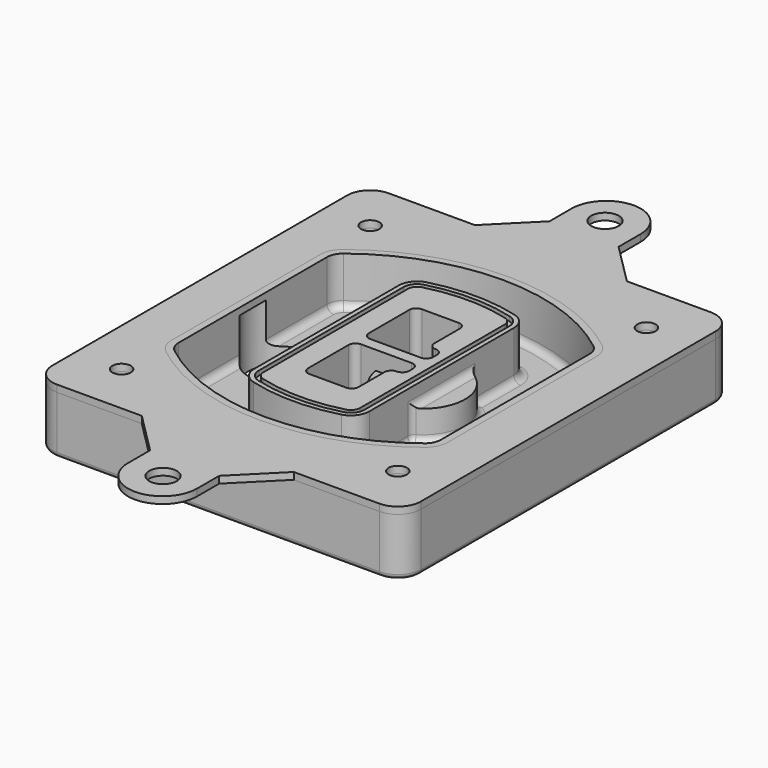
from build123d import *

# Parameters (mm, degrees)
F0_R      = 4
F1_DEPTH  = 25
F2_DEPTH  = 3
F3_DEPTH  = 18
F5_DEPTH  = 21
F6_DEPTH  = 2
F8_DEPTH  = 20
F9_DEPTH  = 16
F10_DEPTH = 25
F7_R      = 6
F7_R_2    = 4
F11_DEPTH = 6
F13_DEPTH = 9
F14_R     = 3
F15_R     = 2
F16_R     = 4
F16_R_2   = 6
F17_DEPTH = 3


with BuildPart() as f1:
    # F0 (on Top) → F1 (new body)
    with BuildSketch(Plane.XY):
        with BuildLine():
            ThreePointArc((-80, -80), (-77.0710678119, -87.0710678119), (-70, -90))
            Line((-70, -90), (70, -90))
            ThreePointArc((70, -90), (77.0710678119, -87.0710678119), (80, -80))
            Line((80, -80), (80, 80))
            ThreePointArc((80, 80), (77.0710678119, 87.0710678119), (70, 90))
            Line((70, 90), (-70, 90))
            ThreePointArc((-70, 90), (-77.0710678119, 87.0710678119), (-80, 80))
            Line((-80, 80), (-80, -80))
        make_face()
        with Locations((-60, -67.5)):
            Circle(F0_R, mode=Mode.SUBTRACT)
        with Locations((60, -67.5)):
            Circle(F0_R, mode=Mode.SUBTRACT)
        with Locations((-60, 67.5)):
            Circle(F0_R, mode=Mode.SUBTRACT)
        with BuildLine():
            ThreePointArc((-64, 40.2934422872), (-62.5820384798, 46.4328484224), (-58.6153846154, 51.3286200352))
            ThreePointArc((-58.6153846154, 51.3286200352), (0, 71.5), (58.6153846154, 51.3286200352))
            ThreePointArc((58.6153846154, 51.3286200352), (62.5820384798, 46.4328484224), (64, 40.2934422872))
            Line((64, 40.2934422872), (64, -40.2934422872))
            ThreePointArc((64, -40.2934422872), (62.5820384798, -46.4328484224), (58.6153846154, -51.3286200352))
            ThreePointArc((58.6153846154, -51.3286200352), (0, -71.5), (-58.6153846154, -51.3286200352))
            ThreePointArc((-58.6153846154, -51.3286200352), (-62.5820384798, -46.4328484224), (-64, -40.2934422872))
            Line((-64, -40.2934422872), (-64, 40.2934422872))
        make_face(mode=Mode.SUBTRACT)
        with Locations((60, 67.5)):
            Circle(F0_R, mode=Mode.SUBTRACT)
        with BuildLine():
            ThreePointArc((58.6153846154, 51.3286200352), (0, 71.5), (-58.6153846154, 51.3286200352))
            ThreePointArc((-58.6153846154, 51.3286200352), (-62.5820384798, 46.4328484224), (-64, 40.2934422872))
            Line((-64, 40.2934422872), (-64, -40.2934422872))
            ThreePointArc((-64, -40.2934422872), (-62.5820384798, -46.4328484224), (-58.6153846154, -51.3286200352))
            ThreePointArc((-58.6153846154, -51.3286200352), (0, -71.5), (58.6153846154, -51.3286200352))
            ThreePointArc((58.6153846154, -51.3286200352), (62.5820384798, -46.4328484224), (64, -40.2934422872))
            Line((64, -40.2934422872), (64, 40.2934422872))
            ThreePointArc((64, 40.2934422872), (62.5820384798, 46.4328484224), (58.6153846154, 51.3286200352))
        make_face()
        with BuildLine():
            Line((-60, -40.2934422872), (-60, 40.2934422872))
            ThreePointArc((-60, 40.2934422872), (-58.9871703427, 44.6787323838), (-56.1538461538, 48.1757121072))
            ThreePointArc((-56.1538461538, 48.1757121072), (0, 67.5), (56.1538461538, 48.1757121072))
            ThreePointArc((56.1538461538, 48.1757121072), (58.9871703427, 44.6787323838), (60, 40.2934422872))
            Line((60, 40.2934422872), (60, -40.2934422872))
            ThreePointArc((60, -40.2934422872), (58.9871703427, -44.6787323838), (56.1538461538, -48.1757121072))
            ThreePointArc((56.1538461538, -48.1757121072), (0, -67.5), (-56.1538461538, -48.1757121072))
            ThreePointArc((-56.1538461538, -48.1757121072), (-58.9871703427, -44.6787323838), (-60, -40.2934422872))
        make_face(mode=Mode.SUBTRACT)
        with BuildLine():
            ThreePointArc((-56.1538461538, 48.1757121072), (-58.9871703427, 44.6787323838), (-60, 40.2934422872))
            Line((-60, 40.2934422872), (-60, -40.2934422872))
            ThreePointArc((-60, -40.2934422872), (-58.9871703427, -44.6787323838), (-56.1538461538, -48.1757121072))
            ThreePointArc((-56.1538461538, -48.1757121072), (0, -67.5), (56.1538461538, -48.1757121072))
            ThreePointArc((56.1538461538, -48.1757121072), (58.9871703427, -44.6787323838), (60, -40.2934422872))
            Line((60, -40.2934422872), (60, 40.2934422872))
            ThreePointArc((60, 40.2934422872), (58.9871703427, 44.6787323838), (56.1538461538, 48.1757121072))
            ThreePointArc((56.1538461538, 48.1757121072), (0, 67.5), (-56.1538461538, 48.1757121072))
        make_face()
        with BuildLine():
            ThreePointArc((54.3076923077, 45.8110311612), (56.2910192399, 43.3631453548), (57, 40.2934422872))
            Line((57, 40.2934422872), (57, -40.2934422872))
            ThreePointArc((57, -40.2934422872), (56.2910192399, -43.3631453548), (54.3076923077, -45.8110311612))
            ThreePointArc((54.3076923077, -45.8110311612), (0, -64.5), (-54.3076923077, -45.8110311612))
            ThreePointArc((-54.3076923077, -45.8110311612), (-56.2910192399, -43.3631453548), (-57, -40.2934422872))
            Line((-57, -40.2934422872), (-57, 40.2934422872))
            ThreePointArc((-57, 40.2934422872), (-56.2910192399, 43.3631453548), (-54.3076923077, 45.8110311612))
            ThreePointArc((-54.3076923077, 45.8110311612), (0, 64.5), (54.3076923077, 45.8110311612))
        make_face(mode=Mode.SUBTRACT)
        with BuildLine():
            Line((57, -40.2934422872), (57, 40.2934422872))
            ThreePointArc((57, 40.2934422872), (56.2910192399, 43.3631453548), (54.3076923077, 45.8110311612))
            ThreePointArc((54.3076923077, 45.8110311612), (0, 64.5), (-54.3076923077, 45.8110311612))
            ThreePointArc((-54.3076923077, 45.8110311612), (-56.2910192399, 43.3631453548), (-57, 40.2934422872))
            Line((-57, 40.2934422872), (-57, -40.2934422872))
            ThreePointArc((-57, -40.2934422872), (-56.2910192399, -43.3631453548), (-54.3076923077, -45.8110311612))
            ThreePointArc((-54.3076923077, -45.8110311612), (0, -64.5), (54.3076923077, -45.8110311612))
            ThreePointArc((54.3076923077, -45.8110311612), (56.2910192399, -43.3631453548), (57, -40.2934422872))
        make_face()
    extrude(amount=-F1_DEPTH)

    # F0 (on Top) → F2 (join)
    with BuildSketch(Plane.XY):
        with BuildLine():
            ThreePointArc((-56.1538461538, 48.1757121072), (-58.9871703427, 44.6787323838), (-60, 40.2934422872))
            Line((-60, 40.2934422872), (-60, -40.2934422872))
            ThreePointArc((-60, -40.2934422872), (-58.9871703427, -44.6787323838), (-56.1538461538, -48.1757121072))
            ThreePointArc((-56.1538461538, -48.1757121072), (0, -67.5), (56.1538461538, -48.1757121072))
            ThreePointArc((56.1538461538, -48.1757121072), (58.9871703427, -44.6787323838), (60, -40.2934422872))
            Line((60, -40.2934422872), (60, 40.2934422872))
            ThreePointArc((60, 40.2934422872), (58.9871703427, 44.6787323838), (56.1538461538, 48.1757121072))
            ThreePointArc((56.1538461538, 48.1757121072), (0, 67.5), (-56.1538461538, 48.1757121072))
        make_face()
        with BuildLine():
            ThreePointArc((54.3076923077, 45.8110311612), (56.2910192399, 43.3631453548), (57, 40.2934422872))
            Line((57, 40.2934422872), (57, -40.2934422872))
            ThreePointArc((57, -40.2934422872), (56.2910192399, -43.3631453548), (54.3076923077, -45.8110311612))
            ThreePointArc((54.3076923077, -45.8110311612), (0, -64.5), (-54.3076923077, -45.8110311612))
            ThreePointArc((-54.3076923077, -45.8110311612), (-56.2910192399, -43.3631453548), (-57, -40.2934422872))
            Line((-57, -40.2934422872), (-57, 40.2934422872))
            ThreePointArc((-57, 40.2934422872), (-56.2910192399, 43.3631453548), (-54.3076923077, 45.8110311612))
            ThreePointArc((-54.3076923077, 45.8110311612), (0, 64.5), (54.3076923077, 45.8110311612))
        make_face(mode=Mode.SUBTRACT)
    extrude(amount=F2_DEPTH)

    # F0 (on Top) → F3 (cut)
    with BuildSketch(Plane.XY):
        with BuildLine():
            Line((57, -40.2934422872), (57, 40.2934422872))
            ThreePointArc((57, 40.2934422872), (56.2910192399, 43.3631453548), (54.3076923077, 45.8110311612))
            ThreePointArc((54.3076923077, 45.8110311612), (0, 64.5), (-54.3076923077, 45.8110311612))
            ThreePointArc((-54.3076923077, 45.8110311612), (-56.2910192399, 43.3631453548), (-57, 40.2934422872))
            Line((-57, 40.2934422872), (-57, -40.2934422872))
            ThreePointArc((-57, -40.2934422872), (-56.2910192399, -43.3631453548), (-54.3076923077, -45.8110311612))
            ThreePointArc((-54.3076923077, -45.8110311612), (0, -64.5), (54.3076923077, -45.8110311612))
            ThreePointArc((54.3076923077, -45.8110311612), (56.2910192399, -43.3631453548), (57, -40.2934422872))
        make_face()
    extrude(amount=-F3_DEPTH, mode=Mode.SUBTRACT)

    # F4 (on face) → F5 (join, through all)
    with BuildSketch(Plane.XY.offset(3)):
        with BuildLine():
            ThreePointArc((-25, -39.2465276821), (-23.3511545998, -44.1109737193), (-19.0842911877, -46.9702398883))
            ThreePointArc((-19.0842911877, -46.9702398883), (0, -49.5), (19.0842911877, -46.9702398883))
            ThreePointArc((19.0842911877, -46.9702398883), (23.3511545998, -44.1109737193), (25, -39.2465276821))
            Line((25, -39.2465276821), (25, 39.2465276821))
            ThreePointArc((25, 39.2465276821), (23.3511545998, 44.1109737193), (19.0842911877, 46.9702398883))
            ThreePointArc((19.0842911877, 46.9702398883), (0, 49.5), (-19.0842911877, 46.9702398883))
            ThreePointArc((-19.0842911877, 46.9702398883), (-23.3511545998, 44.1109737193), (-25, 39.2465276821))
            Line((-25, 39.2465276821), (-25, -39.2465276821))
        make_face()
        with BuildLine():
            ThreePointArc((18.5632183908, 45.0393118368), (21.7633659499, 42.89486221), (23, 39.2465276821))
            Line((23, 39.2465276821), (23, -39.2465276821))
            ThreePointArc((23, -39.2465276821), (21.7633659499, -42.89486221), (18.5632183908, -45.0393118368))
            ThreePointArc((18.5632183908, -45.0393118368), (0, -47.5), (-18.5632183908, -45.0393118368))
            ThreePointArc((-18.5632183908, -45.0393118368), (-21.7633659499, -42.89486221), (-23, -39.2465276821))
            Line((-23, -39.2465276821), (-23, 39.2465276821))
            ThreePointArc((-23, 39.2465276821), (-21.7633659499, 42.89486221), (-18.5632183908, 45.0393118368))
            ThreePointArc((-18.5632183908, 45.0393118368), (0, 47.5), (18.5632183908, 45.0393118368))
        make_face(mode=Mode.SUBTRACT)
        with BuildLine():
            Line((23, -39.2465276821), (23, 39.2465276821))
            ThreePointArc((23, 39.2465276821), (21.7633659499, 42.89486221), (18.5632183908, 45.0393118368))
            ThreePointArc((18.5632183908, 45.0393118368), (0, 47.5), (-18.5632183908, 45.0393118368))
            ThreePointArc((-18.5632183908, 45.0393118368), (-21.7633659499, 42.89486221), (-23, 39.2465276821))
            Line((-23, 39.2465276821), (-23, -39.2465276821))
            ThreePointArc((-23, -39.2465276821), (-21.7633659499, -42.89486221), (-18.5632183908, -45.0393118368))
            ThreePointArc((-18.5632183908, -45.0393118368), (0, -47.5), (18.5632183908, -45.0393118368))
            ThreePointArc((18.5632183908, -45.0393118368), (21.7633659499, -42.89486221), (23, -39.2465276821))
        make_face()
        with BuildLine():
            ThreePointArc((18.0421455939, 43.1083837852), (20.1755772999, 41.6787507007), (21, 39.2465276821))
            Line((21, 39.2465276821), (21, -39.2465276821))
            ThreePointArc((21, -39.2465276821), (20.1755772999, -41.6787507007), (18.0421455939, -43.1083837852))
            ThreePointArc((18.0421455939, -43.1083837852), (0, -45.5), (-18.0421455939, -43.1083837852))
            ThreePointArc((-18.0421455939, -43.1083837852), (-20.1755772999, -41.6787507007), (-21, -39.2465276821))
            Line((-21, -39.2465276821), (-21, 39.2465276821))
            ThreePointArc((-21, 39.2465276821), (-20.1755772999, 41.6787507007), (-18.0421455939, 43.1083837852))
            ThreePointArc((-18.0421455939, 43.1083837852), (0, 45.5), (18.0421455939, 43.1083837852))
        make_face(mode=Mode.SUBTRACT)
        with BuildLine():
            Line((21, -39.2465276821), (21, 39.2465276821))
            ThreePointArc((21, 39.2465276821), (20.1755772999, 41.6787507007), (18.0421455939, 43.1083837852))
            ThreePointArc((18.0421455939, 43.1083837852), (0, 45.5), (-18.0421455939, 43.1083837852))
            ThreePointArc((-18.0421455939, 43.1083837852), (-20.1755772999, 41.6787507007), (-21, 39.2465276821))
            Line((-21, 39.2465276821), (-21, -39.2465276821))
            ThreePointArc((-21, -39.2465276821), (-20.1755772999, -41.6787507007), (-18.0421455939, -43.1083837852))
            ThreePointArc((-18.0421455939, -43.1083837852), (0, -45.5), (18.0421455939, -43.1083837852))
            ThreePointArc((18.0421455939, -43.1083837852), (20.1755772999, -41.6787507007), (21, -39.2465276821))
        make_face()
        with BuildLine():
            Line((-8, -2.5), (14, -2.5))
            ThreePointArc((14, -2.5), (16.1213203436, -3.3786796564), (17, -5.5))
            Line((17, -5.5), (17, -7.5))
            ThreePointArc((17, -7.5), (16.1213203436, -9.6213203436), (14, -10.5))
            ThreePointArc((14, -10.5), (11.8786796564, -11.3786796564), (11, -13.5))
            Line((11, -13.5), (11, -27.5))
            ThreePointArc((11, -27.5), (10.1213203436, -29.6213203436), (8, -30.5))
            Line((8, -30.5), (-8, -30.5))
            ThreePointArc((-8, -30.5), (-10.1213203436, -29.6213203436), (-11, -27.5))
            Line((-11, -27.5), (-11, -5.5))
            ThreePointArc((-11, -5.5), (-10.1213203436, -3.3786796564), (-8, -2.5))
        make_face(mode=Mode.SUBTRACT)
        with BuildLine():
            ThreePointArc((-8, 2.5), (-10.1213203436, 3.3786796564), (-11, 5.5))
            Line((-11, 5.5), (-11, 27.5))
            ThreePointArc((-11, 27.5), (-10.1213203436, 29.6213203436), (-8, 30.5))
            Line((-8, 30.5), (8, 30.5))
            ThreePointArc((8, 30.5), (10.1213203436, 29.6213203436), (11, 27.5))
            Line((11, 27.5), (11, 13.5))
            ThreePointArc((11, 13.5), (11.8786796564, 11.3786796564), (14, 10.5))
            ThreePointArc((14, 10.5), (16.1213203436, 9.6213203436), (17, 7.5))
            Line((17, 7.5), (17, 5.5))
            ThreePointArc((17, 5.5), (16.1213203436, 3.3786796564), (14, 2.5))
            Line((14, 2.5), (-8, 2.5))
        make_face(mode=Mode.SUBTRACT)
    extrude(amount=-F5_DEPTH)

    # F4 (on face) → F6 (cut)
    with BuildSketch(Plane.XY.offset(3)):
        with BuildLine():
            Line((23, -39.2465276821), (23, 39.2465276821))
            ThreePointArc((23, 39.2465276821), (21.7633659499, 42.89486221), (18.5632183908, 45.0393118368))
            ThreePointArc((18.5632183908, 45.0393118368), (0, 47.5), (-18.5632183908, 45.0393118368))
            ThreePointArc((-18.5632183908, 45.0393118368), (-21.7633659499, 42.89486221), (-23, 39.2465276821))
            Line((-23, 39.2465276821), (-23, -39.2465276821))
            ThreePointArc((-23, -39.2465276821), (-21.7633659499, -42.89486221), (-18.5632183908, -45.0393118368))
            ThreePointArc((-18.5632183908, -45.0393118368), (0, -47.5), (18.5632183908, -45.0393118368))
            ThreePointArc((18.5632183908, -45.0393118368), (21.7633659499, -42.89486221), (23, -39.2465276821))
        make_face()
        with BuildLine():
            ThreePointArc((18.0421455939, 43.1083837852), (20.1755772999, 41.6787507007), (21, 39.2465276821))
            Line((21, 39.2465276821), (21, -39.2465276821))
            ThreePointArc((21, -39.2465276821), (20.1755772999, -41.6787507007), (18.0421455939, -43.1083837852))
            ThreePointArc((18.0421455939, -43.1083837852), (0, -45.5), (-18.0421455939, -43.1083837852))
            ThreePointArc((-18.0421455939, -43.1083837852), (-20.1755772999, -41.6787507007), (-21, -39.2465276821))
            Line((-21, -39.2465276821), (-21, 39.2465276821))
            ThreePointArc((-21, 39.2465276821), (-20.1755772999, 41.6787507007), (-18.0421455939, 43.1083837852))
            ThreePointArc((-18.0421455939, 43.1083837852), (0, 45.5), (18.0421455939, 43.1083837852))
        make_face(mode=Mode.SUBTRACT)
    extrude(amount=-F6_DEPTH, mode=Mode.SUBTRACT)

    # F7 (on face) → F8 (join)
    with BuildSketch(Plane(origin=(0, 0, -25), x_dir=(1, 0, 0), z_dir=(0, 0, -1))):
        with BuildLine():
            ThreePointArc((3.28842436, 0), (16.7567035675, 13.4682792075), (30.224982775, 0))
            Line((30.224982775, 0), (35.224982775, 0))
            ThreePointArc((35.224982775, 0), (16.7567035675, 18.4682792075), (-1.71157564, 0))
            Line((-1.71157564, 0), (3.28842436, 0))
        make_face()
        with BuildLine():
            Line((3.28842436, 0), (30.224982775, 0))
            ThreePointArc((30.224982775, 0), (16.7567035675, 13.4682792075), (3.28842436, 0))
        make_face()
        with BuildLine():
            ThreePointArc((3.28842436, 0), (16.7567035675, -13.4682792075), (30.224982775, 0))
            Line((30.224982775, 0), (3.28842436, 0))
        make_face()
        with BuildLine():
            Line((35.224982775, 0), (30.224982775, 0))
            ThreePointArc((30.224982775, 0), (16.7567035675, -13.4682792075), (3.28842436, 0))
            Line((3.28842436, 0), (-1.71157564, 0))
            ThreePointArc((-1.71157564, 0), (16.7567035675, -18.4682792075), (35.224982775, 0))
        make_face()
    extrude(amount=-F8_DEPTH)

    # F7 (on face) → F9 (cut)
    with BuildSketch(Plane(origin=(0, 0, -25), x_dir=(1, 0, 0), z_dir=(0, 0, -1))):
        with BuildLine():
            Line((3.28842436, 0), (30.224982775, 0))
            ThreePointArc((30.224982775, 0), (16.7567035675, 13.4682792075), (3.28842436, 0))
        make_face()
        with BuildLine():
            ThreePointArc((3.28842436, 0), (16.7567035675, -13.4682792075), (30.224982775, 0))
            Line((30.224982775, 0), (3.28842436, 0))
        make_face()
    extrude(amount=-F9_DEPTH, mode=Mode.SUBTRACT)

    # F7 (on face) → F10 (cut)
    with BuildSketch(Plane(origin=(0, 0, -25), x_dir=(1, 0, 0), z_dir=(0, 0, -1))):
        with BuildLine():
            Line((-59.0318229325, 0), (-32.0952645175, 0))
            ThreePointArc((-32.0952645175, 0), (-45.563543725, 13.4682792075), (-59.0318229325, 0))
        make_face()
        with BuildLine():
            ThreePointArc((-59.0318229325, 0), (-45.563543725, -13.4682792075), (-32.0952645175, 0))
            Line((-32.0952645175, 0), (-59.0318229325, 0))
        make_face()
    extrude(amount=-F10_DEPTH, mode=Mode.SUBTRACT)

    # F7 (on face) → F11 (cut)
    with BuildSketch(Plane(origin=(0, 0, -25), x_dir=(1, 0, 0), z_dir=(0, 0, -1))):
        with Locations((60, -67.5)):
            Circle(F7_R)
        with Locations((60, -67.5)):
            Circle(F7_R_2, mode=Mode.SUBTRACT)
        with Locations((60, -67.5)):
            Circle(F7_R)
        with Locations((60, -67.5)):
            Circle(F7_R_2, mode=Mode.SUBTRACT)
        with Locations((-60, -67.5)):
            Circle(F7_R)
        with Locations((-60, -67.5)):
            Circle(F7_R_2, mode=Mode.SUBTRACT)
        with Locations((-60, -67.5)):
            Circle(F7_R)
        with Locations((-60, -67.5)):
            Circle(F7_R_2, mode=Mode.SUBTRACT)
        with Locations((-60, 67.5)):
            Circle(F7_R)
        with Locations((-60, 67.5)):
            Circle(F7_R_2, mode=Mode.SUBTRACT)
        with Locations((-60, 67.5)):
            Circle(F7_R)
        with Locations((-60, 67.5)):
            Circle(F7_R_2, mode=Mode.SUBTRACT)
        with Locations((60, 67.5)):
            Circle(F7_R)
        with Locations((60, 67.5)):
            Circle(F7_R_2, mode=Mode.SUBTRACT)
        with Locations((60, 67.5)):
            Circle(F7_R)
        with Locations((60, 67.5)):
            Circle(F7_R_2, mode=Mode.SUBTRACT)
    extrude(amount=-F11_DEPTH, mode=Mode.SUBTRACT)

    # F12 (on face) → F13 (cut, through all)
    with BuildSketch(Plane(origin=(0, 0, -9), x_dir=(1, 0, 0), z_dir=(0, 0, -1))):
        with BuildLine():
            Line((11, 13.5), (11, 17.5481537753))
            ThreePointArc((11, 17.5481537753), (2.5696536419, 11.8239143813), (-1.5415842455, 2.5))
            Line((-1.5415842455, 2.5), (3.5224848595, 2.5))
            ThreePointArc((3.5224848595, 2.5), (6.1857188154, 8.3455872281), (11.2536447004, 12.2927168648))
            ThreePointArc((11.2536447004, 12.2927168648), (11.0640958889, 12.8831798879), (11, 13.5))
        make_face()
        with BuildLine():
            ThreePointArc((11.2536447004, -12.2927168648), (6.1857188154, -8.3455872281), (3.5224848595, -2.5))
            Line((3.5224848595, -2.5), (-1.5415842455, -2.5))
            ThreePointArc((-1.5415842455, -2.5), (2.5696536419, -11.8239143813), (11, -17.5481537753))
            Line((11, -17.5481537753), (11, -13.5))
            ThreePointArc((11, -13.5), (11.0640958889, -12.8831798879), (11.2536447004, -12.2927168648))
        make_face()
        with BuildLine():
            ThreePointArc((11.2536447004, 12.2927168648), (6.1857188154, 8.3455872281), (3.5224848595, 2.5))
            Line((3.5224848595, 2.5), (14, 2.5))
            ThreePointArc((14, 2.5), (16.1213203436, 3.3786796564), (17, 5.5))
            Line((17, 5.5), (17, 7.5))
            ThreePointArc((17, 7.5), (16.1213203436, 9.6213203436), (14, 10.5))
            ThreePointArc((14, 10.5), (12.3601599782, 10.9878446101), (11.2536447004, 12.2927168648))
        make_face()
        with BuildLine():
            Line((14, -2.5), (3.5224848595, -2.5))
            ThreePointArc((3.5224848595, -2.5), (6.1857188154, -8.3455872281), (11.2536447004, -12.2927168648))
            ThreePointArc((11.2536447004, -12.2927168648), (12.3601599782, -10.9878446101), (14, -10.5))
            ThreePointArc((14, -10.5), (16.1213203436, -9.6213203436), (17, -7.5))
            Line((17, -7.5), (17, -5.5))
            ThreePointArc((17, -5.5), (16.1213203436, -3.3786796564), (14, -2.5))
        make_face()
    extrude(amount=F13_DEPTH, mode=Mode.SUBTRACT)

    # F14
    f14_edges = [f1.edges().sort_by_distance(p)[0] for p in [
        (-57, -23.703476, -18),
        (-57, 23.703476, -18),
        (25, 0, -5),
        (25, 16.526506, -11.5),
        (25, -16.526506, -11.5),
        (25, -27.886517, -18),
        (35.224983, 0, -18),
    ]]
    fillet(f14_edges, radius=F14_R)

    # F15
    f15_edges = [f1.edges().sort_by_distance(p)[0] for p in [
        (0, -90, -25),
    ]]
    fillet(f15_edges, radius=F15_R)


with BuildPart() as f17:
    # F16 (on face) → F17 (new body, through all)
    with BuildSketch(Plane.XY):
        with BuildLine():
            Line((-32.5000015199, 90), (-70, 90))
            ThreePointArc((-70, 90), (-77.0710678119, 87.0710678119), (-80, 80))
            Line((-80, 80), (-80, -80))
            ThreePointArc((-80, -80), (-77.0710678119, -87.0710678119), (-70, -90))
            Line((-70, -90), (-33.2000021189, -90))
            Line((-33.2000021189, -90), (32.7999978811, -90))
            Line((32.7999978811, -90), (70, -90))
            ThreePointArc((70, -90), (77.0710678119, -87.0710678119), (80, -80))
            Line((80, -80), (80, 80))
            ThreePointArc((80, 80), (77.0710678119, 87.0710678119), (70, 90))
            Line((70, 90), (33.4999984801, 90))
            Line((33.4999984801, 90), (-32.5000015199, 90))
        make_face()
        with Locations((-60, -67.5)):
            Circle(F16_R, mode=Mode.SUBTRACT)
        with Locations((60, -67.5)):
            Circle(F16_R, mode=Mode.SUBTRACT)
        with Locations((-60, 67.5)):
            Circle(F16_R, mode=Mode.SUBTRACT)
        with BuildLine():
            ThreePointArc((56.1538461538, -48.1757121072), (0, -67.5), (-56.1538461538, -48.1757121072))
            ThreePointArc((-56.1538461538, -48.1757121072), (-58.9871703427, -44.6787323838), (-60, -40.2934422872))
            Line((-60, -40.2934422872), (-60, 40.2934422872))
            ThreePointArc((-60, 40.2934422872), (-58.9871703427, 44.6787323838), (-56.1538461538, 48.1757121072))
            ThreePointArc((-56.1538461538, 48.1757121072), (0, 67.5), (56.1538461538, 48.1757121072))
            ThreePointArc((56.1538461538, 48.1757121072), (58.9871703427, 44.6787323838), (60, 40.2934422872))
            Line((60, 40.2934422872), (60, -40.2934422872))
            ThreePointArc((60, -40.2934422872), (58.9871703427, -44.6787323838), (56.1538461538, -48.1757121072))
        make_face(mode=Mode.SUBTRACT)
        with Locations((60, 67.5)):
            Circle(F16_R, mode=Mode.SUBTRACT)
        with BuildLine():
            Line((-14.5000015199, 108), (-32.5000015199, 90))
            Line((-32.5000015199, 90), (33.4999984801, 90))
            Line((33.4999984801, 90), (15.4999984801, 108))
            Line((15.4999984801, 108), (15.4999984801, 120))
            ThreePointArc((15.4999984801, 120), (0.4999984801, 135), (-14.5000015199, 120))
            Line((-14.5000015199, 120), (-14.5000015199, 108))
        make_face()
        with Locations((0, 120)):
            Circle(F16_R_2, mode=Mode.SUBTRACT)
        with BuildLine():
            Line((32.7999978811, -90), (-33.2000021189, -90))
            Line((-33.2000021189, -90), (-15.2000021189, -108))
            Line((-15.2000021189, -108), (-15.2000021189, -120))
            ThreePointArc((-15.2000021189, -120), (-0.2000021189, -135), (14.7999978811, -120))
            Line((14.7999978811, -120), (14.7999978811, -108))
            Line((14.7999978811, -108), (32.7999978811, -90))
        make_face()
        with Locations((0, -120)):
            Circle(F16_R_2, mode=Mode.SUBTRACT)
    extrude(amount=F17_DEPTH)


solid = Compound([f1.part, f17.part])
